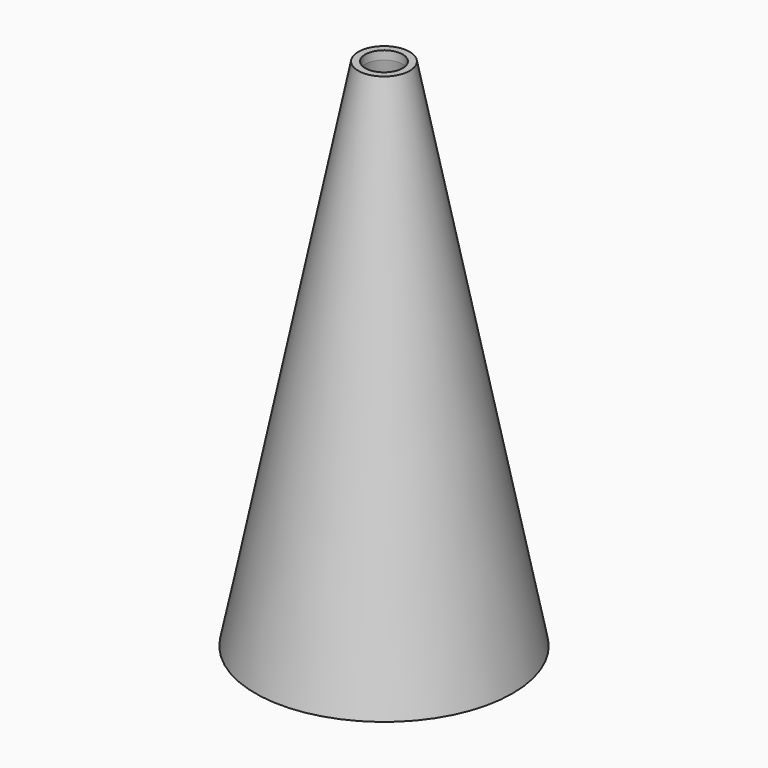
from build123d import *

# Parameters (mm, degrees)
F1_R     = 3
F2_R     = 15
F4_T     = -1
F5_R     = 2.1801960973
F6_DEPTH = 25


with BuildPart() as f3:
    # F1 (on offset) → F3 section 0
    with BuildSketch(Plane.XY.offset(60)):
        Circle(F1_R)
    # F2 (on Top) → F3 section 1
    with BuildSketch(Plane.XY):
        Circle(F2_R)
    loft()

    # F4
    f4_openings = [f3.faces().sort_by_distance(p)[0] for p in [
        (0, 0, 0),
    ]]
    offset(amount=F4_T, openings=f4_openings, kind=Kind.INTERSECTION)

    # F5 (on face) → F6 (cut)
    with BuildSketch(Plane(origin=(0, 0, 59), x_dir=(1, 0, 0), z_dir=(0, 0, -1))):
        Circle(F5_R)
    extrude(amount=-F6_DEPTH, mode=Mode.SUBTRACT)


solid = f3.part
